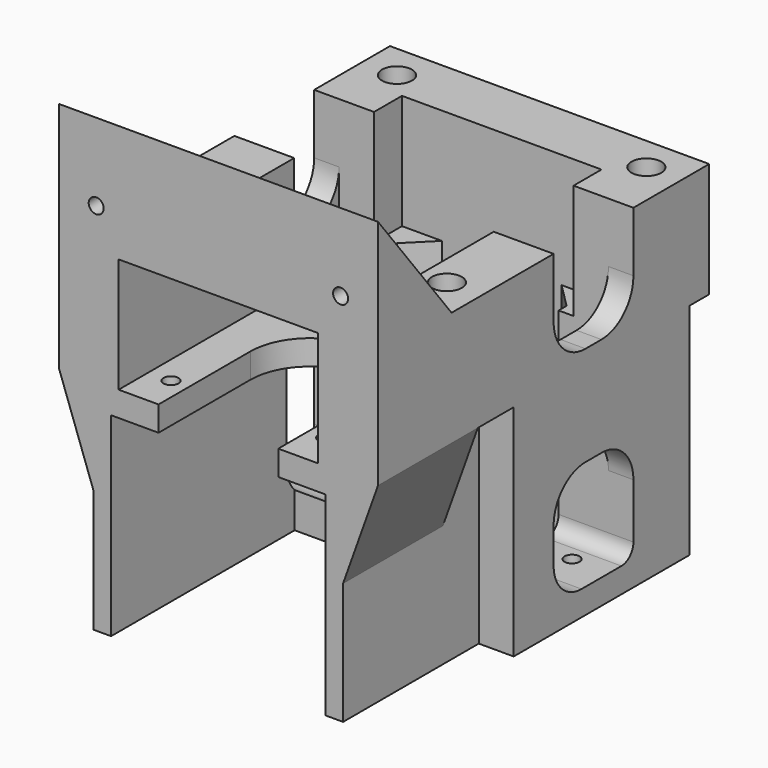
from build123d import *

# Parameters (mm, degrees)
PAD009_DEPTH          = 23
PAD010_DEPTH          = 44
SKETCH024_W           = 43
SKETCH024_H           = 50
POCKET012_DEPTH       = 46
PAD011_DEPTH          = 25
SKETCH026_R           = 1.5
POCKET013_DEPTH       = 44.001
SKETCH027_R           = 3
POCKET014_DEPTH       = 10
POLARPATTERN001_COUNT = 4
POCKET011_DEPTH       = 6
PAD008_DEPTH          = 44
POCKET015_DEPTH       = 64.001
PAD013_DEPTH          = 64
SKETCH032_W           = 40
SKETCH032_H           = 10.43081
POCKET016_DEPTH       = 23.545613
SKETCH033_R           = 1.5
POCKET017_DEPTH       = 83.001
SKETCH034_R           = 4
POCKET018_DEPTH       = 80.001
SKETCH036_R           = 1.5
POCKET019_DEPTH       = 5
SKETCH037_R           = 3
POCKET020_DEPTH       = 10
SKETCH052_W           = 20
SKETCH052_H           = 20
PAD024_DEPTH          = 5
FILLET_R              = 8
FILLET001_R           = 3


with BuildPart() as part:
    # Sketch022 → Pad009 (new body)
    with BuildSketch(Plane.XY):
        Polygon((32, -51), (32, 32), (-32, 32), (-32, -51), (-20, -51), (-20, 20), (20, 20), (20, -51), align=None)
    extrude(amount=-PAD009_DEPTH)

    # Sketch023 (on Face10 of Pad009) → Pad010 (join)
    with BuildSketch(Plane(origin=(0, 0, -23), x_dir=(1, 0, 0), z_dir=(0, 0, -1))):
        with BuildLine():
            Line((-25, 51), (-25, -1))
            Line((-25, -1), (25, -1))
            Line((25, -1), (25, 51))
            Line((25, 51), (11.999997, 51))
            Line((11.999997, 27.99216), (11.999997, 51))
            ThreePointArc((-11.999997, 28.007844), (-0.007842, 16.000003), (11.999997, 27.99216))
            Line((-11.999997, 28.007844), (-11.999997, 51))
            Line((-11.999997, 51), (-25, 51))
        make_face()
    extrude(amount=PAD010_DEPTH)

    # Sketch024 (on Face18 of Pad010) → Pocket012 (cut)
    with BuildSketch(Plane.XZ.offset(51)):
        with Locations((-0.015156, -53)):
            Rectangle(SKETCH024_W, SKETCH024_H)
    extrude(amount=-POCKET012_DEPTH, mode=Mode.SUBTRACT)

    # Sketch025 (on Face14 of Pocket012) → Pad011 (join)
    with BuildSketch(Plane.XZ.offset(51)):
        Polygon((-32, -23), (-25, -23), (-25, -42.561909), align=None)
        Polygon((32, -23), (25, -23), (25, -42.561909), align=None)
    extrude(amount=-PAD011_DEPTH)

    # Sketch026 (on Face11 of Pad011) → Pocket013 (cut, through all)
    with BuildSketch(Plane.XY.offset(-23)):
        with Locations((-15.5, -12.5)):
            Circle(SKETCH026_R)
        with Locations((-15.5, -43.5)):
            Circle(SKETCH026_R)
        with Locations((15.5, -43.5)):
            Circle(SKETCH026_R)
        with Locations((15.5, -12.5)):
            Circle(SKETCH026_R)
    extrude(amount=-POCKET013_DEPTH, mode=Mode.SUBTRACT)

    # Sketch027 (on Face4 of Pocket013) → Pocket014 (cut)
    with BuildSketch(Plane.XY):
        with Locations((-25, 25)):
            Circle(SKETCH027_R)
    pocket014 = extrude(amount=-POCKET014_DEPTH, mode=Mode.SUBTRACT)

    # PolarPattern001: Pocket014 ×4 about axis
    polarpattern001_axis = Axis((0, 0, 0), (0, 0, 1))
    for i in range(1, POLARPATTERN001_COUNT):
        add(pocket014.rotate(polarpattern001_axis, i * 360 / POLARPATTERN001_COUNT), mode=Mode.SUBTRACT)

    # Sketch028 (on Face23 of PolarPattern001) → Pocket011 (cut)
    with BuildSketch(Plane(origin=(0, 1, 0), x_dir=(-1, 0, 0), z_dir=(0, 1, 0))):
        with BuildLine():
            Line((-11.999999, -62.717157), (12.000001, -62.717157))
            Line((12.000001, -62.717157), (12.000001, -49.356773))
            ThreePointArc((12.000001, -49.356773), (1e-06, -37.356773), (-11.999999, -49.356773))
            Line((-11.999999, -49.356773), (-11.999999, -62.717157))
        make_face()
    extrude(amount=-POCKET011_DEPTH, mode=Mode.SUBTRACT)

    # Sketch021 (on Face6 of Pocket011) → Pad008 (join)
    with BuildSketch(Plane(origin=(0, 0, -23), x_dir=(1, 0, 0), z_dir=(0, 0, -1))):
        Polygon((-32, 17), (-25, 17), (-25, 7), (-17, -1), (-17, -15), (-12, -20), (12, -20), (17, -15), (17, -1), (25, 7), (25, 17), (32, 17), (32, -27), (27, -32), (-27, -32), (-32, -27), align=None)
    extrude(amount=PAD008_DEPTH)

    # Sketch029 (on Face52 of Pad008) → Pocket015 (cut, through all)
    with BuildSketch(Plane(origin=(-32, 0, 0), x_dir=(0, -1, 0), z_dir=(-1, 0, 0))):
        with BuildLine():
            Line((7, 0), (-13, 0))
            Line((-13, -62), (-13, 0))
            Line((-13, -62), (0, -62))
            ThreePointArc((0, -62), (4.949747, -59.949747), (7, -55))
            Line((7, -55), (7, 0))
        make_face()
    extrude(amount=-POCKET015_DEPTH, mode=Mode.SUBTRACT)

    # Sketch031 (on Face10 of Pocket015) → Pad013 (join)
    with BuildSketch(Plane(origin=(-32, 0, 0), x_dir=(0, -1, 0), z_dir=(-1, 0, 0))):
        Polygon((51, 0), (51, 23.544613), (32.56919, 0), align=None)
    extrude(amount=-PAD013_DEPTH)

    # Sketch032 (on Face54 of Pad013) → Pocket016 (cut, through all)
    with BuildSketch(Plane(origin=(0, 0, 0), x_dir=(1, 0, 0), z_dir=(0, 0, -1))):
        with Locations((0, 37.784595)):
            Rectangle(SKETCH032_W, SKETCH032_H)
    extrude(amount=-POCKET016_DEPTH, mode=Mode.SUBTRACT)

    # Sketch033 (on Face19 of Pocket016) → Pocket017 (cut, through all)
    with BuildSketch(Plane.XZ.offset(51)):
        with Locations((-24.5, 8)):
            Circle(SKETCH033_R)
        with Locations((24.5, 8)):
            Circle(SKETCH033_R)
    extrude(amount=-POCKET017_DEPTH, mode=Mode.SUBTRACT)

    # Sketch034 (on Face19 of Pocket017) → Pocket018 (cut, through all)
    with BuildSketch(Plane.XZ.offset(48)):
        with Locations((-24.5, 8)):
            Circle(SKETCH034_R)
        with Locations((24.5, 8)):
            Circle(SKETCH034_R)
    extrude(amount=-POCKET018_DEPTH, mode=Mode.SUBTRACT)

    # Sketch036 (on Face6 of Pocket018) → Pocket019 (cut)
    with BuildSketch(Plane.XY.offset(-62)):
        with Locations((24.5, 7)):
            Circle(SKETCH036_R)
        with Locations((-24.5, 7)):
            Circle(SKETCH036_R)
    extrude(amount=-POCKET019_DEPTH, mode=Mode.SUBTRACT)

    # Sketch037 (on Face43 of Pocket019) → Pocket020 (cut)
    with BuildSketch(Plane.XY):
        with Locations((-24.5, 7)):
            Circle(SKETCH037_R)
        with Locations((24.5, 7)):
            Circle(SKETCH037_R)
    extrude(amount=-POCKET020_DEPTH, mode=Mode.SUBTRACT)

    # Sketch052 (on Face17 of Pocket020) → Pad024 (join)
    with BuildSketch(Plane.YZ.offset(32)):
        with Locations((3, -30)):
            Rectangle(SKETCH052_W, SKETCH052_H)
    pad024 = extrude(amount=-PAD024_DEPTH)

    # Mirrored002: Pad024 across YZ
    add(pad024.mirror(Plane.YZ))

    # Fillet
    fillet_edges = [part.edges().sort_by_distance(p)[0] for p in [
        (29.5, -7, -20),
        (29.5, 13, -20),
        (29.5, 13, -40),
        (29.5, -7, -40),
        (-29.5, -7, -20),
        (-29.5, 13, -20),
        (-29.5, -7, -40),
        (-29.5, 13, -40),
    ]]
    fillet(fillet_edges, radius=FILLET_R)

    # Fillet001
    fillet001_edges = [part.edges().sort_by_distance(p)[0] for p in [
        (24.5, 13, -62),
        (-24.5, 13, -62),
    ]]
    fillet(fillet001_edges, radius=FILLET001_R)


solid = part.part
